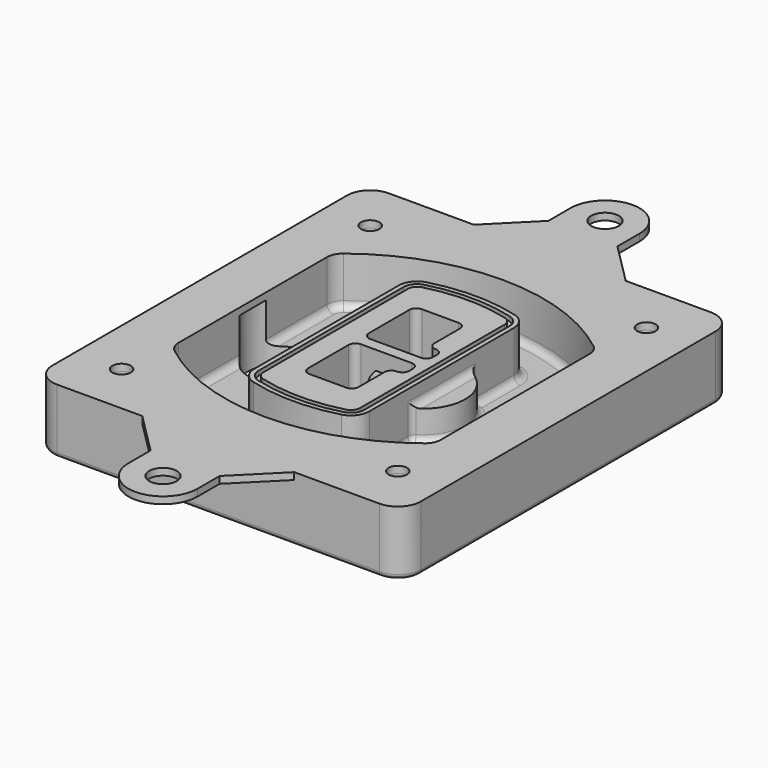
from build123d import *

# Parameters (mm, degrees)
F0_R      = 4
F1_DEPTH  = 25
F2_DEPTH  = 3
F3_DEPTH  = 18
F5_DEPTH  = 21
F6_DEPTH  = 2
F8_DEPTH  = 20
F9_DEPTH  = 16
F10_DEPTH = 25
F7_R      = 6
F7_R_2    = 4
F11_DEPTH = 6
F13_DEPTH = 9
F14_R     = 3
F15_R     = 2
F16_R     = 6
F16_R_2   = 4
F17_DEPTH = 3


with BuildPart() as f1:
    # F0 (on Top) → F1 (new body)
    with BuildSketch(Plane.XY):
        with BuildLine():
            ThreePointArc((-80, -80), (-77.0710678119, -87.0710678119), (-70, -90))
            Line((-70, -90), (70, -90))
            ThreePointArc((70, -90), (77.0710678119, -87.0710678119), (80, -80))
            Line((80, -80), (80, 80))
            ThreePointArc((80, 80), (77.0710678119, 87.0710678119), (70, 90))
            Line((70, 90), (-70, 90))
            ThreePointArc((-70, 90), (-77.0710678119, 87.0710678119), (-80, 80))
            Line((-80, 80), (-80, -80))
        make_face()
        with Locations((-60, -67.5)):
            Circle(F0_R, mode=Mode.SUBTRACT)
        with Locations((60, -67.5)):
            Circle(F0_R, mode=Mode.SUBTRACT)
        with Locations((-60, 67.5)):
            Circle(F0_R, mode=Mode.SUBTRACT)
        with BuildLine():
            ThreePointArc((-64, 40.2934422872), (-62.5820384798, 46.4328484224), (-58.6153846154, 51.3286200352))
            ThreePointArc((-58.6153846154, 51.3286200352), (0, 71.5), (58.6153846154, 51.3286200352))
            ThreePointArc((58.6153846154, 51.3286200352), (62.5820384798, 46.4328484224), (64, 40.2934422872))
            Line((64, 40.2934422872), (64, -40.2934422872))
            ThreePointArc((64, -40.2934422872), (62.5820384798, -46.4328484224), (58.6153846154, -51.3286200352))
            ThreePointArc((58.6153846154, -51.3286200352), (0, -71.5), (-58.6153846154, -51.3286200352))
            ThreePointArc((-58.6153846154, -51.3286200352), (-62.5820384798, -46.4328484224), (-64, -40.2934422872))
            Line((-64, -40.2934422872), (-64, 40.2934422872))
        make_face(mode=Mode.SUBTRACT)
        with Locations((60, 67.5)):
            Circle(F0_R, mode=Mode.SUBTRACT)
        with BuildLine():
            ThreePointArc((58.6153846154, 51.3286200352), (0, 71.5), (-58.6153846154, 51.3286200352))
            ThreePointArc((-58.6153846154, 51.3286200352), (-62.5820384798, 46.4328484224), (-64, 40.2934422872))
            Line((-64, 40.2934422872), (-64, -40.2934422872))
            ThreePointArc((-64, -40.2934422872), (-62.5820384798, -46.4328484224), (-58.6153846154, -51.3286200352))
            ThreePointArc((-58.6153846154, -51.3286200352), (0, -71.5), (58.6153846154, -51.3286200352))
            ThreePointArc((58.6153846154, -51.3286200352), (62.5820384798, -46.4328484224), (64, -40.2934422872))
            Line((64, -40.2934422872), (64, 40.2934422872))
            ThreePointArc((64, 40.2934422872), (62.5820384798, 46.4328484224), (58.6153846154, 51.3286200352))
        make_face()
        with BuildLine():
            Line((-60, -40.2934422872), (-60, 40.2934422872))
            ThreePointArc((-60, 40.2934422872), (-58.9871703427, 44.6787323838), (-56.1538461538, 48.1757121072))
            ThreePointArc((-56.1538461538, 48.1757121072), (0, 67.5), (56.1538461538, 48.1757121072))
            ThreePointArc((56.1538461538, 48.1757121072), (58.9871703427, 44.6787323838), (60, 40.2934422872))
            Line((60, 40.2934422872), (60, -40.2934422872))
            ThreePointArc((60, -40.2934422872), (58.9871703427, -44.6787323838), (56.1538461538, -48.1757121072))
            ThreePointArc((56.1538461538, -48.1757121072), (0, -67.5), (-56.1538461538, -48.1757121072))
            ThreePointArc((-56.1538461538, -48.1757121072), (-58.9871703427, -44.6787323838), (-60, -40.2934422872))
        make_face(mode=Mode.SUBTRACT)
        with BuildLine():
            ThreePointArc((-56.1538461538, 48.1757121072), (-58.9871703427, 44.6787323838), (-60, 40.2934422872))
            Line((-60, 40.2934422872), (-60, -40.2934422872))
            ThreePointArc((-60, -40.2934422872), (-58.9871703427, -44.6787323838), (-56.1538461538, -48.1757121072))
            ThreePointArc((-56.1538461538, -48.1757121072), (0, -67.5), (56.1538461538, -48.1757121072))
            ThreePointArc((56.1538461538, -48.1757121072), (58.9871703427, -44.6787323838), (60, -40.2934422872))
            Line((60, -40.2934422872), (60, 40.2934422872))
            ThreePointArc((60, 40.2934422872), (58.9871703427, 44.6787323838), (56.1538461538, 48.1757121072))
            ThreePointArc((56.1538461538, 48.1757121072), (0, 67.5), (-56.1538461538, 48.1757121072))
        make_face()
        with BuildLine():
            ThreePointArc((54.3076923077, 45.8110311612), (56.2910192399, 43.3631453548), (57, 40.2934422872))
            Line((57, 40.2934422872), (57, -40.2934422872))
            ThreePointArc((57, -40.2934422872), (56.2910192399, -43.3631453548), (54.3076923077, -45.8110311612))
            ThreePointArc((54.3076923077, -45.8110311612), (0, -64.5), (-54.3076923077, -45.8110311612))
            ThreePointArc((-54.3076923077, -45.8110311612), (-56.2910192399, -43.3631453548), (-57, -40.2934422872))
            Line((-57, -40.2934422872), (-57, 40.2934422872))
            ThreePointArc((-57, 40.2934422872), (-56.2910192399, 43.3631453548), (-54.3076923077, 45.8110311612))
            ThreePointArc((-54.3076923077, 45.8110311612), (0, 64.5), (54.3076923077, 45.8110311612))
        make_face(mode=Mode.SUBTRACT)
        with BuildLine():
            Line((57, -40.2934422872), (57, 40.2934422872))
            ThreePointArc((57, 40.2934422872), (56.2910192399, 43.3631453548), (54.3076923077, 45.8110311612))
            ThreePointArc((54.3076923077, 45.8110311612), (0, 64.5), (-54.3076923077, 45.8110311612))
            ThreePointArc((-54.3076923077, 45.8110311612), (-56.2910192399, 43.3631453548), (-57, 40.2934422872))
            Line((-57, 40.2934422872), (-57, -40.2934422872))
            ThreePointArc((-57, -40.2934422872), (-56.2910192399, -43.3631453548), (-54.3076923077, -45.8110311612))
            ThreePointArc((-54.3076923077, -45.8110311612), (0, -64.5), (54.3076923077, -45.8110311612))
            ThreePointArc((54.3076923077, -45.8110311612), (56.2910192399, -43.3631453548), (57, -40.2934422872))
        make_face()
    extrude(amount=-F1_DEPTH)

    # F0 (on Top) → F2 (join)
    with BuildSketch(Plane.XY):
        with BuildLine():
            ThreePointArc((-56.1538461538, 48.1757121072), (-58.9871703427, 44.6787323838), (-60, 40.2934422872))
            Line((-60, 40.2934422872), (-60, -40.2934422872))
            ThreePointArc((-60, -40.2934422872), (-58.9871703427, -44.6787323838), (-56.1538461538, -48.1757121072))
            ThreePointArc((-56.1538461538, -48.1757121072), (0, -67.5), (56.1538461538, -48.1757121072))
            ThreePointArc((56.1538461538, -48.1757121072), (58.9871703427, -44.6787323838), (60, -40.2934422872))
            Line((60, -40.2934422872), (60, 40.2934422872))
            ThreePointArc((60, 40.2934422872), (58.9871703427, 44.6787323838), (56.1538461538, 48.1757121072))
            ThreePointArc((56.1538461538, 48.1757121072), (0, 67.5), (-56.1538461538, 48.1757121072))
        make_face()
        with BuildLine():
            ThreePointArc((54.3076923077, 45.8110311612), (56.2910192399, 43.3631453548), (57, 40.2934422872))
            Line((57, 40.2934422872), (57, -40.2934422872))
            ThreePointArc((57, -40.2934422872), (56.2910192399, -43.3631453548), (54.3076923077, -45.8110311612))
            ThreePointArc((54.3076923077, -45.8110311612), (0, -64.5), (-54.3076923077, -45.8110311612))
            ThreePointArc((-54.3076923077, -45.8110311612), (-56.2910192399, -43.3631453548), (-57, -40.2934422872))
            Line((-57, -40.2934422872), (-57, 40.2934422872))
            ThreePointArc((-57, 40.2934422872), (-56.2910192399, 43.3631453548), (-54.3076923077, 45.8110311612))
            ThreePointArc((-54.3076923077, 45.8110311612), (0, 64.5), (54.3076923077, 45.8110311612))
        make_face(mode=Mode.SUBTRACT)
    extrude(amount=F2_DEPTH)

    # F0 (on Top) → F3 (cut)
    with BuildSketch(Plane.XY):
        with BuildLine():
            Line((57, -40.2934422872), (57, 40.2934422872))
            ThreePointArc((57, 40.2934422872), (56.2910192399, 43.3631453548), (54.3076923077, 45.8110311612))
            ThreePointArc((54.3076923077, 45.8110311612), (0, 64.5), (-54.3076923077, 45.8110311612))
            ThreePointArc((-54.3076923077, 45.8110311612), (-56.2910192399, 43.3631453548), (-57, 40.2934422872))
            Line((-57, 40.2934422872), (-57, -40.2934422872))
            ThreePointArc((-57, -40.2934422872), (-56.2910192399, -43.3631453548), (-54.3076923077, -45.8110311612))
            ThreePointArc((-54.3076923077, -45.8110311612), (0, -64.5), (54.3076923077, -45.8110311612))
            ThreePointArc((54.3076923077, -45.8110311612), (56.2910192399, -43.3631453548), (57, -40.2934422872))
        make_face()
    extrude(amount=-F3_DEPTH, mode=Mode.SUBTRACT)

    # F4 (on face) → F5 (join, through all)
    with BuildSketch(Plane.XY.offset(3)):
        with BuildLine():
            ThreePointArc((-25, -39.2465276821), (-23.3511545998, -44.1109737193), (-19.0842911877, -46.9702398883))
            ThreePointArc((-19.0842911877, -46.9702398883), (0, -49.5), (19.0842911877, -46.9702398883))
            ThreePointArc((19.0842911877, -46.9702398883), (23.3511545998, -44.1109737193), (25, -39.2465276821))
            Line((25, -39.2465276821), (25, 39.2465276821))
            ThreePointArc((25, 39.2465276821), (23.3511545998, 44.1109737193), (19.0842911877, 46.9702398883))
            ThreePointArc((19.0842911877, 46.9702398883), (0, 49.5), (-19.0842911877, 46.9702398883))
            ThreePointArc((-19.0842911877, 46.9702398883), (-23.3511545998, 44.1109737193), (-25, 39.2465276821))
            Line((-25, 39.2465276821), (-25, -39.2465276821))
        make_face()
        with BuildLine():
            ThreePointArc((18.5632183908, 45.0393118368), (21.7633659499, 42.89486221), (23, 39.2465276821))
            Line((23, 39.2465276821), (23, -39.2465276821))
            ThreePointArc((23, -39.2465276821), (21.7633659499, -42.89486221), (18.5632183908, -45.0393118368))
            ThreePointArc((18.5632183908, -45.0393118368), (0, -47.5), (-18.5632183908, -45.0393118368))
            ThreePointArc((-18.5632183908, -45.0393118368), (-21.7633659499, -42.89486221), (-23, -39.2465276821))
            Line((-23, -39.2465276821), (-23, 39.2465276821))
            ThreePointArc((-23, 39.2465276821), (-21.7633659499, 42.89486221), (-18.5632183908, 45.0393118368))
            ThreePointArc((-18.5632183908, 45.0393118368), (0, 47.5), (18.5632183908, 45.0393118368))
        make_face(mode=Mode.SUBTRACT)
        with BuildLine():
            Line((23, -39.2465276821), (23, 39.2465276821))
            ThreePointArc((23, 39.2465276821), (21.7633659499, 42.89486221), (18.5632183908, 45.0393118368))
            ThreePointArc((18.5632183908, 45.0393118368), (0, 47.5), (-18.5632183908, 45.0393118368))
            ThreePointArc((-18.5632183908, 45.0393118368), (-21.7633659499, 42.89486221), (-23, 39.2465276821))
            Line((-23, 39.2465276821), (-23, -39.2465276821))
            ThreePointArc((-23, -39.2465276821), (-21.7633659499, -42.89486221), (-18.5632183908, -45.0393118368))
            ThreePointArc((-18.5632183908, -45.0393118368), (0, -47.5), (18.5632183908, -45.0393118368))
            ThreePointArc((18.5632183908, -45.0393118368), (21.7633659499, -42.89486221), (23, -39.2465276821))
        make_face()
        with BuildLine():
            ThreePointArc((18.0421455939, 43.1083837852), (20.1755772999, 41.6787507007), (21, 39.2465276821))
            Line((21, 39.2465276821), (21, -39.2465276821))
            ThreePointArc((21, -39.2465276821), (20.1755772999, -41.6787507007), (18.0421455939, -43.1083837852))
            ThreePointArc((18.0421455939, -43.1083837852), (0, -45.5), (-18.0421455939, -43.1083837852))
            ThreePointArc((-18.0421455939, -43.1083837852), (-20.1755772999, -41.6787507007), (-21, -39.2465276821))
            Line((-21, -39.2465276821), (-21, 39.2465276821))
            ThreePointArc((-21, 39.2465276821), (-20.1755772999, 41.6787507007), (-18.0421455939, 43.1083837852))
            ThreePointArc((-18.0421455939, 43.1083837852), (0, 45.5), (18.0421455939, 43.1083837852))
        make_face(mode=Mode.SUBTRACT)
        with BuildLine():
            Line((21, -39.2465276821), (21, 39.2465276821))
            ThreePointArc((21, 39.2465276821), (20.1755772999, 41.6787507007), (18.0421455939, 43.1083837852))
            ThreePointArc((18.0421455939, 43.1083837852), (0, 45.5), (-18.0421455939, 43.1083837852))
            ThreePointArc((-18.0421455939, 43.1083837852), (-20.1755772999, 41.6787507007), (-21, 39.2465276821))
            Line((-21, 39.2465276821), (-21, -39.2465276821))
            ThreePointArc((-21, -39.2465276821), (-20.1755772999, -41.6787507007), (-18.0421455939, -43.1083837852))
            ThreePointArc((-18.0421455939, -43.1083837852), (0, -45.5), (18.0421455939, -43.1083837852))
            ThreePointArc((18.0421455939, -43.1083837852), (20.1755772999, -41.6787507007), (21, -39.2465276821))
        make_face()
        with BuildLine():
            Line((-8, -2.5), (14, -2.5))
            ThreePointArc((14, -2.5), (16.1213203436, -3.3786796564), (17, -5.5))
            Line((17, -5.5), (17, -7.5))
            ThreePointArc((17, -7.5), (16.1213203436, -9.6213203436), (14, -10.5))
            ThreePointArc((14, -10.5), (11.8786796564, -11.3786796564), (11, -13.5))
            Line((11, -13.5), (11, -27.5))
            ThreePointArc((11, -27.5), (10.1213203436, -29.6213203436), (8, -30.5))
            Line((8, -30.5), (-8, -30.5))
            ThreePointArc((-8, -30.5), (-10.1213203436, -29.6213203436), (-11, -27.5))
            Line((-11, -27.5), (-11, -5.5))
            ThreePointArc((-11, -5.5), (-10.1213203436, -3.3786796564), (-8, -2.5))
        make_face(mode=Mode.SUBTRACT)
        with BuildLine():
            ThreePointArc((-8, 2.5), (-10.1213203436, 3.3786796564), (-11, 5.5))
            Line((-11, 5.5), (-11, 27.5))
            ThreePointArc((-11, 27.5), (-10.1213203436, 29.6213203436), (-8, 30.5))
            Line((-8, 30.5), (8, 30.5))
            ThreePointArc((8, 30.5), (10.1213203436, 29.6213203436), (11, 27.5))
            Line((11, 27.5), (11, 13.5))
            ThreePointArc((11, 13.5), (11.8786796564, 11.3786796564), (14, 10.5))
            ThreePointArc((14, 10.5), (16.1213203436, 9.6213203436), (17, 7.5))
            Line((17, 7.5), (17, 5.5))
            ThreePointArc((17, 5.5), (16.1213203436, 3.3786796564), (14, 2.5))
            Line((14, 2.5), (-8, 2.5))
        make_face(mode=Mode.SUBTRACT)
    extrude(amount=-F5_DEPTH)

    # F4 (on face) → F6 (cut)
    with BuildSketch(Plane.XY.offset(3)):
        with BuildLine():
            Line((23, -39.2465276821), (23, 39.2465276821))
            ThreePointArc((23, 39.2465276821), (21.7633659499, 42.89486221), (18.5632183908, 45.0393118368))
            ThreePointArc((18.5632183908, 45.0393118368), (0, 47.5), (-18.5632183908, 45.0393118368))
            ThreePointArc((-18.5632183908, 45.0393118368), (-21.7633659499, 42.89486221), (-23, 39.2465276821))
            Line((-23, 39.2465276821), (-23, -39.2465276821))
            ThreePointArc((-23, -39.2465276821), (-21.7633659499, -42.89486221), (-18.5632183908, -45.0393118368))
            ThreePointArc((-18.5632183908, -45.0393118368), (0, -47.5), (18.5632183908, -45.0393118368))
            ThreePointArc((18.5632183908, -45.0393118368), (21.7633659499, -42.89486221), (23, -39.2465276821))
        make_face()
        with BuildLine():
            ThreePointArc((18.0421455939, 43.1083837852), (20.1755772999, 41.6787507007), (21, 39.2465276821))
            Line((21, 39.2465276821), (21, -39.2465276821))
            ThreePointArc((21, -39.2465276821), (20.1755772999, -41.6787507007), (18.0421455939, -43.1083837852))
            ThreePointArc((18.0421455939, -43.1083837852), (0, -45.5), (-18.0421455939, -43.1083837852))
            ThreePointArc((-18.0421455939, -43.1083837852), (-20.1755772999, -41.6787507007), (-21, -39.2465276821))
            Line((-21, -39.2465276821), (-21, 39.2465276821))
            ThreePointArc((-21, 39.2465276821), (-20.1755772999, 41.6787507007), (-18.0421455939, 43.1083837852))
            ThreePointArc((-18.0421455939, 43.1083837852), (0, 45.5), (18.0421455939, 43.1083837852))
        make_face(mode=Mode.SUBTRACT)
    extrude(amount=-F6_DEPTH, mode=Mode.SUBTRACT)

    # F7 (on face) → F8 (join)
    with BuildSketch(Plane(origin=(0, 0, -25), x_dir=(1, 0, 0), z_dir=(0, 0, -1))):
        with BuildLine():
            ThreePointArc((3.28842436, 0), (16.7567035675, 13.4682792075), (30.224982775, 0))
            Line((30.224982775, 0), (35.224982775, 0))
            ThreePointArc((35.224982775, 0), (16.7567035675, 18.4682792075), (-1.71157564, 0))
            Line((-1.71157564, 0), (3.28842436, 0))
        make_face()
        with BuildLine():
            Line((3.28842436, 0), (30.224982775, 0))
            ThreePointArc((30.224982775, 0), (16.7567035675, 13.4682792075), (3.28842436, 0))
        make_face()
        with BuildLine():
            ThreePointArc((3.28842436, 0), (16.7567035675, -13.4682792075), (30.224982775, 0))
            Line((30.224982775, 0), (3.28842436, 0))
        make_face()
        with BuildLine():
            Line((35.224982775, 0), (30.224982775, 0))
            ThreePointArc((30.224982775, 0), (16.7567035675, -13.4682792075), (3.28842436, 0))
            Line((3.28842436, 0), (-1.71157564, 0))
            ThreePointArc((-1.71157564, 0), (16.7567035675, -18.4682792075), (35.224982775, 0))
        make_face()
    extrude(amount=-F8_DEPTH)

    # F7 (on face) → F9 (cut)
    with BuildSketch(Plane(origin=(0, 0, -25), x_dir=(1, 0, 0), z_dir=(0, 0, -1))):
        with BuildLine():
            Line((3.28842436, 0), (30.224982775, 0))
            ThreePointArc((30.224982775, 0), (16.7567035675, 13.4682792075), (3.28842436, 0))
        make_face()
        with BuildLine():
            ThreePointArc((3.28842436, 0), (16.7567035675, -13.4682792075), (30.224982775, 0))
            Line((30.224982775, 0), (3.28842436, 0))
        make_face()
    extrude(amount=-F9_DEPTH, mode=Mode.SUBTRACT)

    # F7 (on face) → F10 (cut)
    with BuildSketch(Plane(origin=(0, 0, -25), x_dir=(1, 0, 0), z_dir=(0, 0, -1))):
        with BuildLine():
            Line((-59.0318229325, 0), (-32.0952645175, 0))
            ThreePointArc((-32.0952645175, 0), (-45.563543725, 13.4682792075), (-59.0318229325, 0))
        make_face()
        with BuildLine():
            ThreePointArc((-59.0318229325, 0), (-45.563543725, -13.4682792075), (-32.0952645175, 0))
            Line((-32.0952645175, 0), (-59.0318229325, 0))
        make_face()
    extrude(amount=-F10_DEPTH, mode=Mode.SUBTRACT)

    # F7 (on face) → F11 (cut)
    with BuildSketch(Plane(origin=(0, 0, -25), x_dir=(1, 0, 0), z_dir=(0, 0, -1))):
        with Locations((60, -67.5)):
            Circle(F7_R)
        with Locations((60, -67.5)):
            Circle(F7_R_2, mode=Mode.SUBTRACT)
        with Locations((60, -67.5)):
            Circle(F7_R)
        with Locations((60, -67.5)):
            Circle(F7_R_2, mode=Mode.SUBTRACT)
        with Locations((-60, -67.5)):
            Circle(F7_R)
        with Locations((-60, -67.5)):
            Circle(F7_R_2, mode=Mode.SUBTRACT)
        with Locations((-60, -67.5)):
            Circle(F7_R)
        with Locations((-60, -67.5)):
            Circle(F7_R_2, mode=Mode.SUBTRACT)
        with Locations((-60, 67.5)):
            Circle(F7_R)
        with Locations((-60, 67.5)):
            Circle(F7_R_2, mode=Mode.SUBTRACT)
        with Locations((-60, 67.5)):
            Circle(F7_R)
        with Locations((-60, 67.5)):
            Circle(F7_R_2, mode=Mode.SUBTRACT)
        with Locations((60, 67.5)):
            Circle(F7_R)
        with Locations((60, 67.5)):
            Circle(F7_R_2, mode=Mode.SUBTRACT)
        with Locations((60, 67.5)):
            Circle(F7_R)
        with Locations((60, 67.5)):
            Circle(F7_R_2, mode=Mode.SUBTRACT)
    extrude(amount=-F11_DEPTH, mode=Mode.SUBTRACT)

    # F12 (on face) → F13 (cut, through all)
    with BuildSketch(Plane(origin=(0, 0, -9), x_dir=(1, 0, 0), z_dir=(0, 0, -1))):
        with BuildLine():
            Line((11, 13.5), (11, 17.5481537753))
            ThreePointArc((11, 17.5481537753), (2.5696536419, 11.8239143813), (-1.5415842455, 2.5))
            Line((-1.5415842455, 2.5), (3.5224848595, 2.5))
            ThreePointArc((3.5224848595, 2.5), (6.1857188154, 8.3455872281), (11.2536447004, 12.2927168648))
            ThreePointArc((11.2536447004, 12.2927168648), (11.0640958889, 12.8831798879), (11, 13.5))
        make_face()
        with BuildLine():
            ThreePointArc((11.2536447004, -12.2927168648), (6.1857188154, -8.3455872281), (3.5224848595, -2.5))
            Line((3.5224848595, -2.5), (-1.5415842455, -2.5))
            ThreePointArc((-1.5415842455, -2.5), (2.5696536419, -11.8239143813), (11, -17.5481537753))
            Line((11, -17.5481537753), (11, -13.5))
            ThreePointArc((11, -13.5), (11.0640958889, -12.8831798879), (11.2536447004, -12.2927168648))
        make_face()
        with BuildLine():
            ThreePointArc((11.2536447004, 12.2927168648), (6.1857188154, 8.3455872281), (3.5224848595, 2.5))
            Line((3.5224848595, 2.5), (14, 2.5))
            ThreePointArc((14, 2.5), (16.1213203436, 3.3786796564), (17, 5.5))
            Line((17, 5.5), (17, 7.5))
            ThreePointArc((17, 7.5), (16.1213203436, 9.6213203436), (14, 10.5))
            ThreePointArc((14, 10.5), (12.3601599782, 10.9878446101), (11.2536447004, 12.2927168648))
        make_face()
        with BuildLine():
            Line((14, -2.5), (3.5224848595, -2.5))
            ThreePointArc((3.5224848595, -2.5), (6.1857188154, -8.3455872281), (11.2536447004, -12.2927168648))
            ThreePointArc((11.2536447004, -12.2927168648), (12.3601599782, -10.9878446101), (14, -10.5))
            ThreePointArc((14, -10.5), (16.1213203436, -9.6213203436), (17, -7.5))
            Line((17, -7.5), (17, -5.5))
            ThreePointArc((17, -5.5), (16.1213203436, -3.3786796564), (14, -2.5))
        make_face()
    extrude(amount=F13_DEPTH, mode=Mode.SUBTRACT)

    # F14
    f14_edges = [f1.edges().sort_by_distance(p)[0] for p in [
        (-57, -23.703476, -18),
        (-57, 23.703476, -18),
        (25, 0, -5),
        (25, 16.526506, -11.5),
        (25, -16.526506, -11.5),
        (25, -27.886517, -18),
        (35.224983, 0, -18),
    ]]
    fillet(f14_edges, radius=F14_R)

    # F15
    f15_edges = [f1.edges().sort_by_distance(p)[0] for p in [
        (0, -90, -25),
    ]]
    fillet(f15_edges, radius=F15_R)

    # F16 (on face) → F17 (join, through all)
    with BuildSketch(Plane.XY):
        with BuildLine():
            Line((15, 108), (15, 120))
            ThreePointArc((15, 120), (0, 135), (-15, 120))
            Line((-15, 120), (-15, 108))
            Line((-15, 108), (-33, 90))
            Line((-33, 90), (33, 90))
            Line((33, 90), (15, 108))
        make_face()
        with Locations((0, 120)):
            Circle(F16_R, mode=Mode.SUBTRACT)
        with BuildLine():
            Line((15, -108), (33, -90))
            Line((33, -90), (-33, -90))
            Line((-33, -90), (-15, -108))
            Line((-15, -108), (-15, -120))
            ThreePointArc((-15, -120), (0, -135), (15, -120))
            Line((15, -120), (15, -108))
        make_face()
        with Locations((0, -120)):
            Circle(F16_R, mode=Mode.SUBTRACT)
        with BuildLine():
            Line((70, 90), (33, 90))
            Line((33, 90), (-33, 90))
            Line((-33, 90), (-70, 90))
            ThreePointArc((-70, 90), (-77.0710678119, 87.0710678119), (-80, 80))
            Line((-80, 80), (-80, -80))
            ThreePointArc((-80, -80), (-77.0710678119, -87.0710678119), (-70, -90))
            Line((-70, -90), (-33, -90))
            Line((-33, -90), (33, -90))
            Line((33, -90), (70, -90))
            ThreePointArc((70, -90), (77.0710678119, -87.0710678119), (80, -80))
            Line((80, -80), (80, 80))
            ThreePointArc((80, 80), (77.0710678119, 87.0710678119), (70, 90))
        make_face()
        with Locations((-60, -67.5)):
            Circle(F16_R_2, mode=Mode.SUBTRACT)
        with Locations((60, -67.5)):
            Circle(F16_R_2, mode=Mode.SUBTRACT)
        with Locations((-60, 67.5)):
            Circle(F16_R_2, mode=Mode.SUBTRACT)
        with BuildLine():
            ThreePointArc((-60, 40.2934422872), (-58.9871703427, 44.6787323838), (-56.1538461538, 48.1757121072))
            ThreePointArc((-56.1538461538, 48.1757121072), (0, 67.5), (56.1538461538, 48.1757121072))
            ThreePointArc((56.1538461538, 48.1757121072), (58.9871703427, 44.6787323838), (60, 40.2934422872))
            Line((60, 40.2934422872), (60, -40.2934422872))
            ThreePointArc((60, -40.2934422872), (58.9871703427, -44.6787323838), (56.1538461538, -48.1757121072))
            ThreePointArc((56.1538461538, -48.1757121072), (0, -67.5), (-56.1538461538, -48.1757121072))
            ThreePointArc((-56.1538461538, -48.1757121072), (-58.9871703427, -44.6787323838), (-60, -40.2934422872))
            Line((-60, -40.2934422872), (-60, 40.2934422872))
        make_face(mode=Mode.SUBTRACT)
        with Locations((60, 67.5)):
            Circle(F16_R_2, mode=Mode.SUBTRACT)
    extrude(amount=F17_DEPTH)


solid = f1.part
